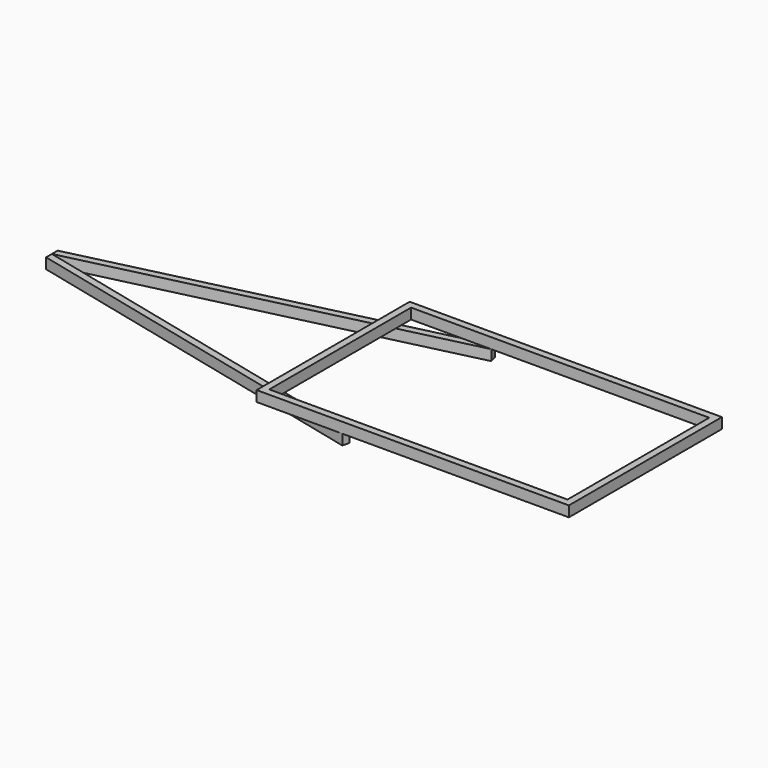
from build123d import *

# Parameters (mm, degrees)
F0_W     = 2220
F0_H     = 1360
F0_W_2   = 2120
F0_H_2   = 1260
F1_DEPTH = 75
F3_DEPTH = 75


with BuildPart() as f1:
    # F0 (on Top) → F1 (new body)
    with BuildSketch(Plane.XY):
        Rectangle(F0_W, F0_H)
        Rectangle(F0_W_2, F0_H_2, mode=Mode.SUBTRACT)
    extrude(amount=F1_DEPTH)


with BuildPart() as f3:
    # F2 (on Top) → F3 (new body)
    with BuildSketch(Plane.XY):
        Polygon((-3110, -51.4251897689), (-1110, -532.3412203032), (-1110, -480.9160305344), (-3110, 0), align=None)
        Polygon((-1110, -480.9160305344), (-1110, -532.3412203032), (-703.8634876103, -630), (-490, -630), align=None)
        Polygon((-490, -630), (-703.8634876103, -630), (-501.689699948, -678.6143077203), align=None)
    extrude(amount=-F3_DEPTH)


with BuildPart() as f3b:
    # F2 (on Top) → F3, piece 2 (new body)
    with BuildSketch(Plane.XY):
        Polygon((-1110, 480.9160305344), (-1110, 532.3412203032), (-3110, 51.4251897689), (-3110, 0), align=None)
        Polygon((-703.8634876103, 630), (-1110, 532.3412203032), (-1110, 480.9160305344), (-490, 630), align=None)
        Polygon((-501.689699948, 678.6143077203), (-703.8634876103, 630), (-490, 630), align=None)
    extrude(amount=-F3_DEPTH)


solid = Compound([f1.part, f3.part, f3b.part])
